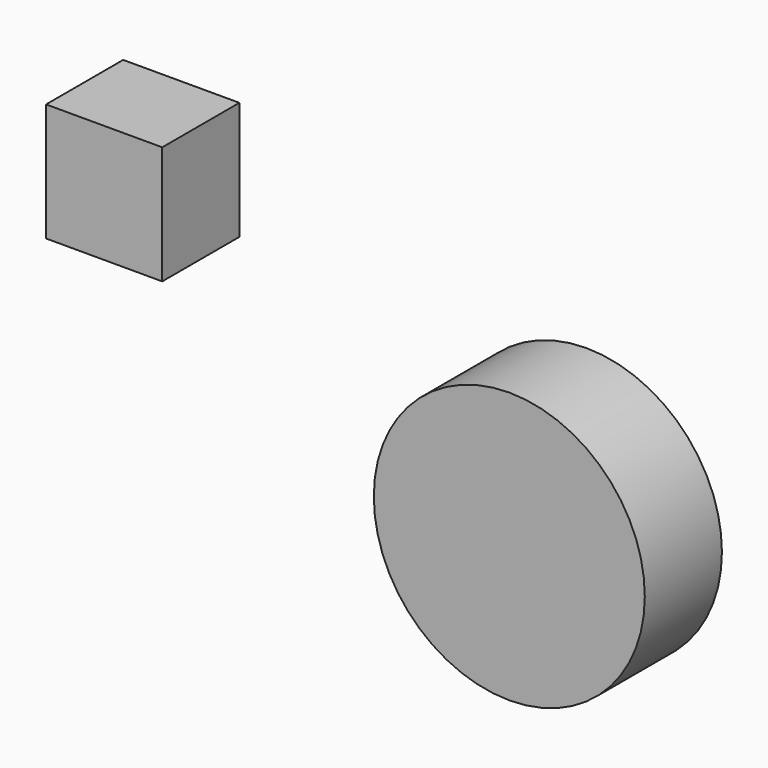
from build123d import *

# Parameters (mm, degrees)
F0_R     = 35.140148
F1_DEPTH = 25
F2_W     = 30.126289
F2_H     = 30.620157
F3_DEPTH = 25


with BuildPart() as f1:
    # F0 (on Front) → F1 (new body)
    with BuildSketch(Plane.XZ):
        Circle(F0_R)
    extrude(amount=F1_DEPTH)


with BuildPart() as f3:
    # F2 (on Front) → F3 (new body)
    with BuildSketch(Plane.XZ):
        with Locations((-105.071589, 46.54758)):
            Rectangle(F2_W, F2_H)
    extrude(amount=F3_DEPTH)


solid = Compound([f1.part, f3.part])
